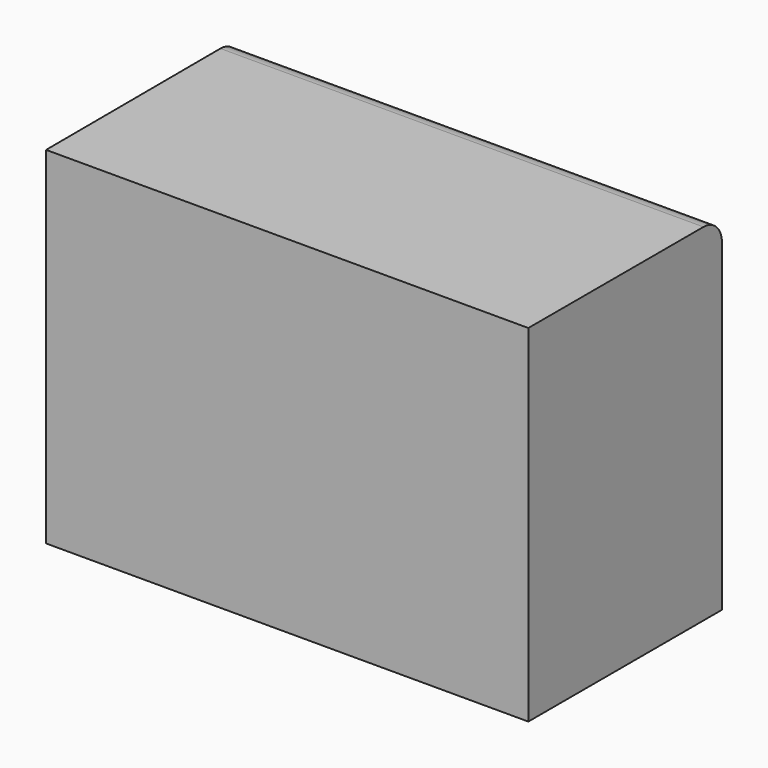
from build123d import *

# Parameters (mm, degrees)
F1_DEPTH = 76.2
F2_W     = 36.258861
F2_H     = 54.309234
F3_DEPTH = 25.4
F4_SIZE  = 5.08
F5_R     = 5.08


with BuildPart() as f1:
    # F0 (on Top) → F1 (new body)
    with BuildSketch(Plane.XY):
        Polygon((29.875379, 7.188763), (-76.368935, 7.188763), (-76.182216, -46.026755), (29.875379, -46.026755), align=None)
    extrude(amount=F1_DEPTH)

    # F2 (on face) → F3 (join)
    with BuildSketch(Plane(origin=(0, 7.188763, 0), x_dir=(-1, 0, 0), z_dir=(0, 1, 0))):
        with Locations((58.239504, 27.154617)):
            Rectangle(F2_W, F2_H)
    extrude(amount=F3_DEPTH)

    # F4
    f4_edges = [f1.edges().sort_by_distance(p)[0] for p in [
        (-76.368935, 32.588763, 27.154617),
    ]]
    chamfer(f4_edges, length=F4_SIZE)

    # F5
    f5_edges = [f1.edges().sort_by_distance(p)[0] for p in [
        (-23.246778, 7.188763, 76.2),
    ]]
    fillet(f5_edges, radius=F5_R)


solid = f1.part
